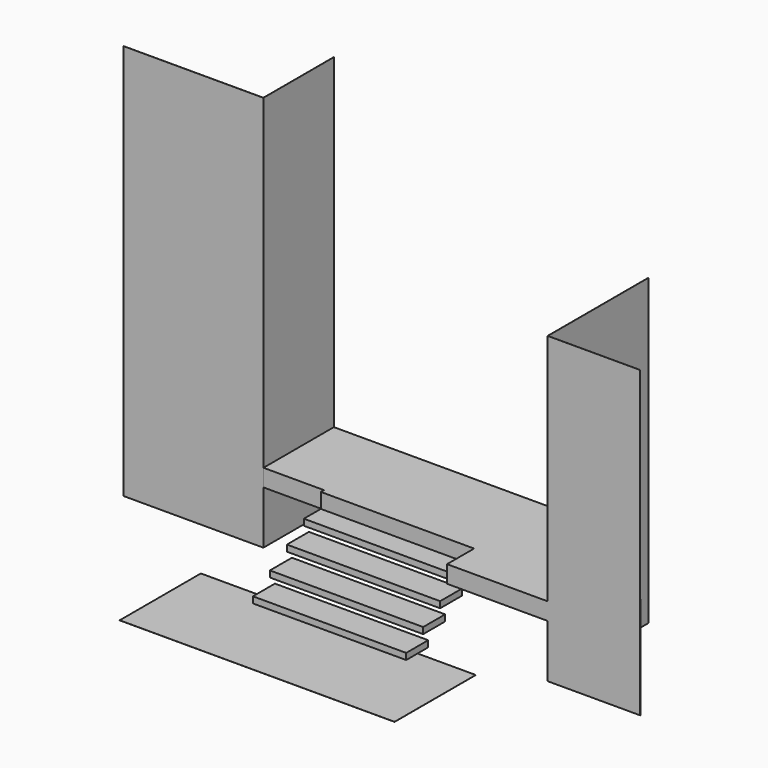
from build123d import *

# Parameters (mm, degrees)
F1_DEPTH  = 220
F7_W      = 1950
F7_H      = 350
F8_DEPTH  = 80
F9_W      = 1950
F9_H      = 350
F10_DEPTH = 80
F11_W     = 1950
F11_H     = 350
F12_DEPTH = 80
F13_W     = 1950
F13_H     = 350
F14_DEPTH = 80
F15_W     = 3497.9887008667
F15_H     = 1291.1554574966
F16_DEPTH = 1
F17_W     = 1120
F17_H     = 5039.6552276611
F18_DEPTH = 1
F19_W     = 1780.5008888245
F19_H     = 5039.6552276611
F20_DEPTH = 1
F21_W     = 1600
F21_H     = 3868.2322692871
F22_DEPTH = 1
F24_DEPTH = 1


with BuildPart() as f1:
    # F0 (on Top) → F1 (new body)
    with BuildSketch(Plane.XY):
        Polygon((2000, 0), (0, 0), (-2000, 0), (-2000, -1120), (-1230, -1120), (-1230, -1170), (720, -1170), (720, -1600), (2000, -1600), align=None)
    extrude(amount=-F1_DEPTH)

    # F17 (on face) → F18 (join)
    with BuildSketch(Plane(origin=(-2000, 0, 0), x_dir=(0, -1, 0), z_dir=(-1, 0, 0))):
        with Locations((560, 1624.8276138306)):
            Rectangle(F17_W, F17_H)
    extrude(amount=F18_DEPTH)

    # F19 (on face) → F20 (join)
    with BuildSketch(Plane.XZ.offset(1120)):
        with Locations((-2890.2504444122, 1624.8276138306)):
            Rectangle(F19_W, F19_H)
    extrude(amount=F20_DEPTH)

    # F21 (on face) → F22 (join)
    with BuildSketch(Plane.YZ.offset(2000)):
        with Locations((-800, 1039.1161346436)):
            Rectangle(F21_W, F21_H)
    extrude(amount=F22_DEPTH)

    # F23 (on face) → F24 (join)
    with BuildSketch(Plane.XZ.offset(1600)):
        Polygon((3176.8793387898, 2973.5365114465), (2000, 2973.2322692871), (2001, -895), (3177.8793387898, -894.6957578406), align=None)
    extrude(amount=-F24_DEPTH)


with BuildPart() as f8:
    # F7 (on offset) → F8 (new body)
    with BuildSketch(Plane.XY.offset(-190)):
        with Locations((-255, -1265)):
            Rectangle(F7_W, F7_H)
    extrude(amount=-F8_DEPTH)


with BuildPart() as f10:
    # F9 (on offset) → F10 (new body)
    with BuildSketch(Plane.XY.offset(-370)):
        with Locations((-255, -1535)):
            Rectangle(F9_W, F9_H)
    extrude(amount=-F10_DEPTH)


with BuildPart() as f12:
    # F11 (on offset) → F12 (new body)
    with BuildSketch(Plane.XY.offset(-550)):
        with Locations((-255, -1805)):
            Rectangle(F11_W, F11_H)
    extrude(amount=-F12_DEPTH)


with BuildPart() as f14:
    # F13 (on offset) → F14 (new body)
    with BuildSketch(Plane.XY.offset(-730)):
        with Locations((-255, -2075)):
            Rectangle(F13_W, F13_H)
    extrude(amount=-F14_DEPTH)


with BuildPart() as f16:
    # F15 (on offset) → F16 (new body)
    with BuildSketch(Plane.XY.offset(-895)):
        with Locations((-390.4845714569, -2587.0873332024)):
            Rectangle(F15_W, F15_H)
    extrude(amount=-F16_DEPTH)


solid = Compound([f1.part, f8.part, f10.part, f12.part, f14.part, f16.part])
